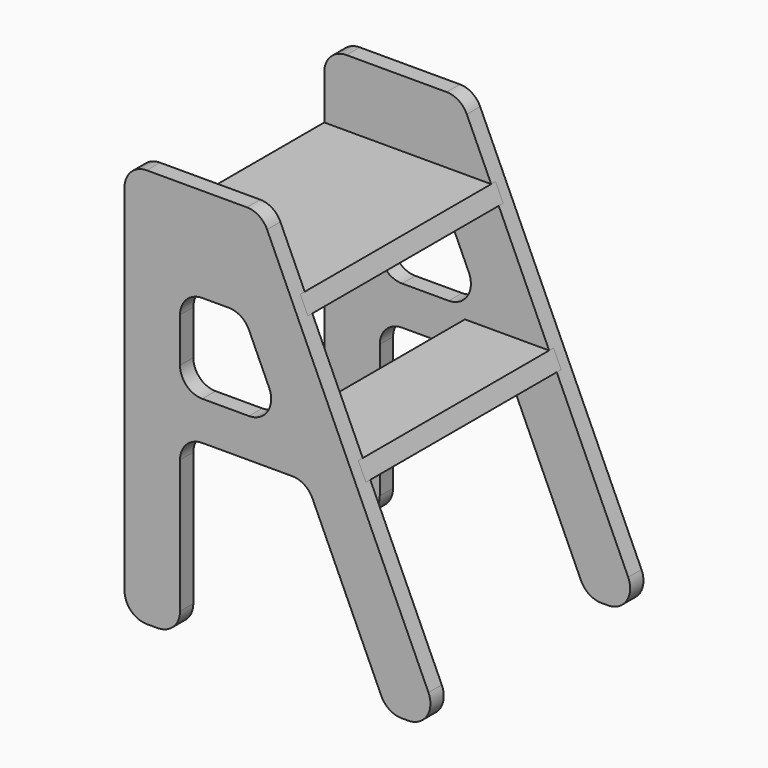
from build123d import *

# Parameters (mm, degrees)
F5_DEPTH  = 19.05
F6_DEPTH  = 19.05
F7_W      = 279.4
F7_H      = 19.05
F8_DEPTH  = 112.776
F9_W      = 279.4
F9_H      = 19.05
F10_DEPTH = 209.804
F12_DEPTH = 375.92
F15_DEPTH = 313.436


with BuildPart() as f5:
    # F4 (on offset) → F5 (new body)
    with BuildSketch(Plane.XZ.offset(152.4)):
        with BuildLine():
            Line((156.056568, 0), (163.756519, 0))
            ThreePointArc((163.756519, 0), (185.111738, 11.648106), (186.880512, 35.909087))
            Line((186.880512, 35.909087), (2.185208, 442.309087))
            ThreePointArc((2.185208, 442.309087), (-7.186892, 453.15522), (-20.938786, 457.2))
            Line((-20.938786, 457.2), (-135.561358, 457.2))
            ThreePointArc((-135.561358, 457.2), (-153.52187, 449.760512), (-160.961358, 431.8))
            Line((-160.961358, 431.8), (-160.961358, 25.4))
            ThreePointArc((-160.961358, 25.4), (-153.52187, 7.439488), (-135.561358, 0))
            Line((-135.561358, 0), (-122.861358, 0))
            ThreePointArc((-122.861358, 0), (-104.900846, 7.439488), (-97.461358, 25.4))
            Line((-97.461358, 25.4), (-97.461358, 177.8))
            ThreePointArc((-97.461358, 177.8), (-90.02187, 195.760512), (-72.061358, 203.2))
            Line((-72.061358, 203.2), (30.995779, 203.2))
            ThreePointArc((30.995779, 203.2), (44.747674, 199.15522), (54.119773, 188.309087))
            Line((54.119773, 188.309087), (132.932575, 14.890913))
            ThreePointArc((132.932575, 14.890913), (142.304674, 4.04478), (156.056568, 0))
        make_face()
    extrude(amount=-F5_DEPTH)



with BuildPart() as f6:
    # F3 (on offset) → F6 (new body)
    with BuildSketch(Plane.XZ.offset(-152.4)):
        with BuildLine():
            Line((156.056568, 0), (163.756519, 0))
            ThreePointArc((163.756519, 0), (185.111738, 11.648106), (186.880512, 35.909087))
            Line((186.880512, 35.909087), (2.185208, 442.309087))
            ThreePointArc((2.185208, 442.309087), (-7.186892, 453.15522), (-20.938786, 457.2))
            Line((-20.938786, 457.2), (-135.561358, 457.2))
            ThreePointArc((-135.561358, 457.2), (-153.52187, 449.760512), (-160.961358, 431.8))
            Line((-160.961358, 431.8), (-160.961358, 25.4))
            ThreePointArc((-160.961358, 25.4), (-153.52187, 7.439488), (-135.561358, 0))
            Line((-135.561358, 0), (-122.861358, 0))
            ThreePointArc((-122.861358, 0), (-104.900846, 7.439488), (-97.461358, 25.4))
            Line((-97.461358, 25.4), (-97.461358, 177.8))
            ThreePointArc((-97.461358, 177.8), (-90.02187, 195.760512), (-72.061358, 203.2))
            Line((-72.061358, 203.2), (30.995779, 203.2))
            ThreePointArc((30.995779, 203.2), (44.747674, 199.15522), (54.119773, 188.309087))
            Line((54.119773, 188.309087), (132.932575, 14.890913))
            ThreePointArc((132.932575, 14.890913), (142.304674, 4.04478), (156.056568, 0))
        make_face()
    extrude(amount=F6_DEPTH)


with BuildPart() as f5_1:
    add(f5.part)

    add(f6.part)  # F8 merges F6
    # F7 (on Right) → F8 (join)
    with BuildSketch(Plane.YZ):
        with Locations((0, 225.425)):
            Rectangle(F7_W, F7_H)
    extrude(amount=F8_DEPTH)

    # F9 (on face) → F10 (join)
    with BuildSketch(Plane(origin=(-160.961358, 0, 0), x_dir=(0, -1, 0), z_dir=(-1, 0, 0))):
        with Locations((0, 371.475)):
            Rectangle(F9_W, F9_H)
    extrude(amount=-F10_DEPTH)

    # F11 (on face) → F12 (cut)
    with BuildSketch(Plane(origin=(0, 152.4, 0), x_dir=(-1, 0, 0), z_dir=(0, 1, 0))):
        Polygon((-117.13268, 189.380877), (-14.780929, 414.593705), (-39.657071, 420.538783), (-147.453333, 203.160607), align=None)
    extrude(amount=-F12_DEPTH, mode=Mode.SUBTRACT)

    # F14 (on face) → F15 (cut)
    with BuildSketch(Plane.XZ.offset(152.4)):
        with BuildLine():
            ThreePointArc((-18.542245, 247.65), (2.812975, 259.298106), (4.581749, 283.559087))
            Line((4.581749, 283.559087), (-18.505164, 334.359087))
            ThreePointArc((-18.505164, 334.359087), (-27.877264, 345.20522), (-41.629158, 349.25))
            Line((-41.629158, 349.25), (-72.061358, 349.25))
            ThreePointArc((-72.061358, 349.25), (-90.02187, 341.810512), (-97.461358, 323.85))
            Line((-97.461358, 323.85), (-97.461358, 273.05))
            ThreePointArc((-97.461358, 273.05), (-90.02187, 255.089488), (-72.061358, 247.65))
            Line((-72.061358, 247.65), (-18.542245, 247.65))
        make_face()
    extrude(amount=-F15_DEPTH, mode=Mode.SUBTRACT)


solid = f5_1.part
